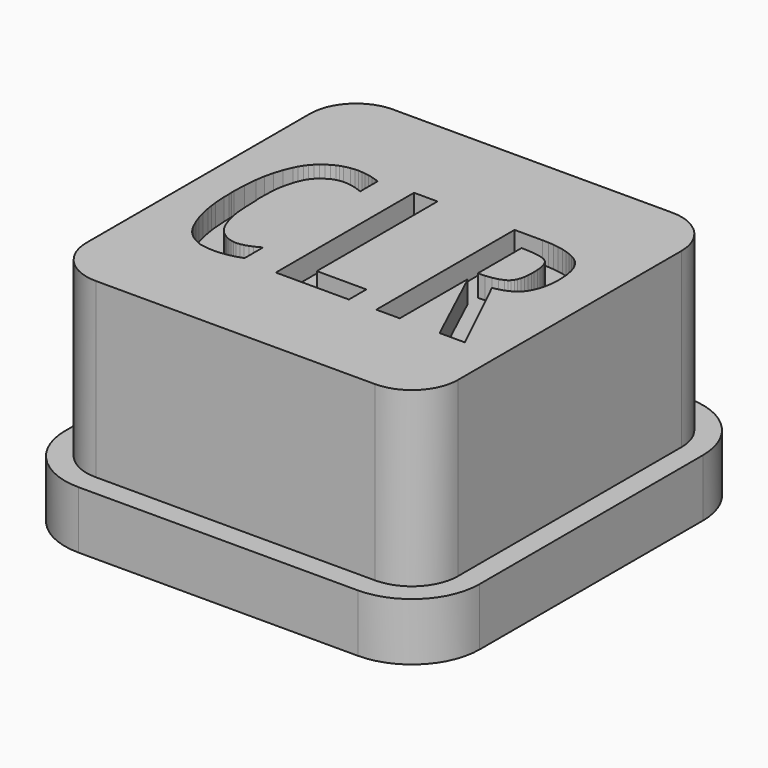
from build123d import *

# Parameters (mm, degrees)
F1_DEPTH = 2
F2_DEPTH = 8
F3_DEPTH = 7.25


with BuildPart() as f1:
    # F0 (on Top) → F1 (new body)
    with BuildSketch(Plane.XY):
        with BuildLine():
            Line((4.85, 7.2), (-4.85, 7.2))
            ThreePointArc((-4.85, 7.2), (-6.5117009358, 6.5117009358), (-7.2, 4.85))
            Line((-7.2, 4.85), (-7.2, -4.85))
            ThreePointArc((-7.2, -4.85), (-6.5117009358, -6.5117009358), (-4.85, -7.2))
            Line((-4.85, -7.2), (4.85, -7.2))
            ThreePointArc((4.85, -7.2), (6.5117009358, -6.5117009358), (7.2, -4.85))
            Line((7.2, -4.85), (7.2, 4.85))
            ThreePointArc((7.2, 4.85), (6.5117009358, 6.5117009358), (4.85, 7.2))
        make_face()
        with BuildLine():
            ThreePointArc((6.45, -4.85), (5.9813708499, -5.9813708499), (4.85, -6.45))
            Line((4.85, -6.45), (-4.85, -6.45))
            ThreePointArc((-4.85, -6.45), (-5.9813708499, -5.9813708499), (-6.45, -4.85))
            Line((-6.45, -4.85), (-6.45, 4.85))
            ThreePointArc((-6.45, 4.85), (-5.9813708499, 5.9813708499), (-4.85, 6.45))
            Line((-4.85, 6.45), (4.85, 6.45))
            ThreePointArc((4.85, 6.45), (5.9813708499, 5.9813708499), (6.45, 4.85))
            Line((6.45, 4.85), (6.45, -4.85))
        make_face(mode=Mode.SUBTRACT)
    extrude(amount=F1_DEPTH)

    # F0 (on Top) → F2 (join)
    with BuildSketch(Plane.XY):
        with BuildLine():
            Line((-4.85, -6.45), (4.85, -6.45))
            ThreePointArc((4.85, -6.45), (5.9813708499, -5.9813708499), (6.45, -4.85))
            Line((6.45, -4.85), (6.45, 4.85))
            ThreePointArc((6.45, 4.85), (5.9813708499, 5.9813708499), (4.85, 6.45))
            Line((4.85, 6.45), (-4.85, 6.45))
            ThreePointArc((-4.85, 6.45), (-5.9813708499, 5.9813708499), (-6.45, 4.85))
            Line((-6.45, 4.85), (-6.45, -4.85))
            ThreePointArc((-6.45, -4.85), (-5.9813708499, -5.9813708499), (-4.85, -6.45))
        make_face()
        Polygon((1.190839, -3.01374), (-1.346565, -3.01374), (-1.346565, 2.98626), (-0.531298, 2.98626), (-0.531298, -2.253435), (1.190839, -2.253435), align=None, mode=Mode.SUBTRACT)
        Polygon((2.977099, -0.091603), (2.958778, -0.091603), (2.958778, -3.01374), (2.143511, -3.01374), (2.143511, 2.98626), (3.123664, 2.98626), (3.324475, 2.981465), (3.514694, 2.967081), (3.694322, 2.943106), (3.863358, 2.909542), (4.021803, 2.866389), (4.169656, 2.813645), (4.306918, 2.751312), (4.433587, 2.67939), (4.547376, 2.593154), (4.645992, 2.487882), (4.729437, 2.363574), (4.79771, 2.220229), (4.850811, 2.057849), (4.88874, 1.876432), (4.911498, 1.675978), (4.919084, 1.456489), (4.915291, 1.304342), (4.903912, 1.159352), (4.884947, 1.021518), (4.858397, 0.89084), (4.82426, 0.767319), (4.782538, 0.650955), (4.73323, 0.541747), (4.676335, 0.439695), (4.609422, 0.345802), (4.530057, 0.261069), (4.438239, 0.185497), (4.333969, 0.119084), (4.217247, 0.061832), (4.088072, 0.013741), (3.946445, -0.02519), (3.792366, -0.054961), (5.221374, -3.01374), (4.341984, -3.01374), align=None, mode=Mode.SUBTRACT)
        Polygon((-2.537405, -2.079389), (-2.537405, -2.876336), (-2.672519, -2.927862), (-2.821374, -2.972519), (-2.9771, -3.008015), (-3.132825, -3.032061), (-3.29313, -3.054961), (-3.444275, -3.059542), (-3.622901, -3.054961), (-3.810687, -3.032061), (-3.90229, -3.01832), (-3.993894, -2.995419), (-4.124499, -2.940386), (-4.246088, -2.876049), (-4.35866, -2.802409), (-4.462214, -2.719465), (-4.556751, -2.627218), (-4.642271, -2.525668), (-4.718774, -2.414814), (-4.78626, -2.294656), (-4.902195, -2.040744), (-4.998092, -1.778244), (-5.073951, -1.507156), (-5.129771, -1.227481), (-5.161832, -1.025954), (-5.184733, -0.824427), (-5.212214, -0.430534), (-5.212214, -0.32061), (-5.212214, -0.210687), (-5.221374, -0.096183), (-5.221374, 0.018321), (-5.207634, 0.448855), (-5.166413, 0.89771), (-5.118035, 1.205726), (-5.046184, 1.506871), (-4.950859, 1.801145), (-4.832061, 2.08855), (-4.761999, 2.225811), (-4.682348, 2.353626), (-4.593106, 2.471995), (-4.494275, 2.580916), (-4.385854, 2.680392), (-4.267844, 2.77042), (-4.140244, 2.851002), (-4.003054, 2.922138), (-3.909161, 2.963359), (-3.810687, 2.99542), (-3.6, 3.041222), (-3.458016, 3.054962), (-3.325191, 3.059542), (-3.210687, 3.054962), (-3.096184, 3.041222), (-2.950764, 3.018321), (-2.807634, 2.98626), (-2.669084, 2.945039), (-2.537405, 2.894657), (-2.537405, 2.134352), (-2.67481, 2.189313), (-2.821374, 2.235115), (-3.009161, 2.276336), (-3.187787, 2.290077), (-3.256489, 2.290077), (-3.325191, 2.280916), (-3.432825, 2.264886), (-3.535878, 2.235115), (-3.634352, 2.191603), (-3.728245, 2.134352), (-3.807825, 2.08354), (-3.88168, 2.02729), (-3.94981, 1.965602), (-4.012214, 1.898474), (-4.068894, 1.825907), (-4.119848, 1.747901), (-4.165077, 1.664456), (-4.204581, 1.575573), (-4.271565, 1.390077), (-4.325955, 1.2), (-4.367748, 1.005344), (-4.396947, 0.806107), (-4.419848, 0.416794), (-4.424428, 0.045802), (-4.424428, 0.032061), (-4.424428, 0.027481), (-4.419848, 0.013741), (-4.415268, 0), (-4.410687, -0.01832), (-4.406107, -0.027481), (-4.396947, -0.458015), (-4.383207, -0.698473), (-4.360306, -0.943511), (-4.326527, -1.138454), (-4.280153, -1.329389), (-4.221184, -1.516316), (-4.149619, -1.699236), (-4.107968, -1.786617), (-4.060878, -1.867843), (-4.00835, -1.942915), (-3.950382, -2.011832), (-3.886976, -2.074594), (-3.81813, -2.131202), (-3.743846, -2.181655), (-3.664123, -2.225954), (-3.567939, -2.271755), (-3.471756, -2.299236), (-3.375573, -2.322137), (-3.27939, -2.326717), (-3.151145, -2.317557), (-3.022901, -2.290076), (-2.895802, -2.248855), (-2.770993, -2.198473), align=None, mode=Mode.SUBTRACT)
    extrude(amount=F2_DEPTH)



with BuildPart() as f2:
    # F0 (on Top) → F2, piece 2 (new body)
    with BuildSketch(Plane.XY):
        Polygon((3.23645, 2.263741), (2.958778, 2.271756), (2.958778, 0.375573), (3.19895, 0.384447), (3.415648, 0.411069), (3.608874, 0.455439), (3.778626, 0.517558), (3.852838, 0.560425), (3.917461, 0.618035), (3.972495, 0.690387), (4.017939, 0.777481), (4.053793, 0.879318), (4.080057, 0.995897), (4.096731, 1.127219), (4.103816, 1.273283), (4.103816, 1.383206), (4.099522, 1.53335), (4.086641, 1.667748), (4.065171, 1.786403), (4.035114, 1.889313), (3.996469, 1.976479), (3.949236, 2.047901), (3.893416, 2.103579), (3.829007, 2.143512), (3.671564, 2.199619), (3.474045, 2.239695), align=None)
    extrude(amount=F2_DEPTH)


with BuildPart() as f1_1:
    add(f1.part)

    add(f2.part)  # F3 merges F2
    # F0 (on Top) → F3 (join)
    with BuildSketch(Plane.XY):
        Polygon((-2.672519, -2.927862), (-2.537405, -2.876336), (-2.537405, -2.079389), (-2.770993, -2.198473), (-2.895802, -2.248855), (-3.022901, -2.290076), (-3.151145, -2.317557), (-3.27939, -2.326717), (-3.375573, -2.322137), (-3.471756, -2.299236), (-3.567939, -2.271755), (-3.664123, -2.225954), (-3.743846, -2.181655), (-3.81813, -2.131202), (-3.886976, -2.074594), (-3.950382, -2.011832), (-4.00835, -1.942915), (-4.060878, -1.867843), (-4.107968, -1.786617), (-4.149619, -1.699236), (-4.221184, -1.516316), (-4.280153, -1.329389), (-4.326527, -1.138454), (-4.360306, -0.943511), (-4.383207, -0.698473), (-4.396947, -0.458015), (-4.406107, -0.027481), (-4.410687, -0.01832), (-4.415268, 0), (-4.419848, 0.013741), (-4.424428, 0.027481), (-4.424428, 0.032061), (-4.424428, 0.045802), (-4.419848, 0.416794), (-4.396947, 0.806107), (-4.367748, 1.005344), (-4.325955, 1.2), (-4.271565, 1.390077), (-4.204581, 1.575573), (-4.165077, 1.664456), (-4.119848, 1.747901), (-4.068894, 1.825907), (-4.012214, 1.898474), (-3.94981, 1.965602), (-3.88168, 2.02729), (-3.807825, 2.08354), (-3.728245, 2.134352), (-3.634352, 2.191603), (-3.535878, 2.235115), (-3.432825, 2.264886), (-3.325191, 2.280916), (-3.256489, 2.290077), (-3.187787, 2.290077), (-3.009161, 2.276336), (-2.821374, 2.235115), (-2.67481, 2.189313), (-2.537405, 2.134352), (-2.537405, 2.894657), (-2.669084, 2.945039), (-2.807634, 2.98626), (-2.950764, 3.018321), (-3.096184, 3.041222), (-3.210687, 3.054962), (-3.325191, 3.059542), (-3.458016, 3.054962), (-3.6, 3.041222), (-3.810687, 2.99542), (-3.909161, 2.963359), (-4.003054, 2.922138), (-4.140244, 2.851002), (-4.267844, 2.77042), (-4.385854, 2.680392), (-4.494275, 2.580916), (-4.593106, 2.471995), (-4.682348, 2.353626), (-4.761999, 2.225811), (-4.832061, 2.08855), (-4.950859, 1.801145), (-5.046184, 1.506871), (-5.118035, 1.205726), (-5.166413, 0.89771), (-5.207634, 0.448855), (-5.221374, 0.018321), (-5.221374, -0.096183), (-5.212214, -0.210687), (-5.212214, -0.32061), (-5.212214, -0.430534), (-5.184733, -0.824427), (-5.161832, -1.025954), (-5.129771, -1.227481), (-5.073951, -1.507156), (-4.998092, -1.778244), (-4.902195, -2.040744), (-4.78626, -2.294656), (-4.718774, -2.414814), (-4.642271, -2.525668), (-4.556751, -2.627218), (-4.462214, -2.719465), (-4.35866, -2.802409), (-4.246088, -2.876049), (-4.124499, -2.940386), (-3.993894, -2.995419), (-3.90229, -3.01832), (-3.810687, -3.032061), (-3.622901, -3.054961), (-3.444275, -3.059542), (-3.29313, -3.054961), (-3.132825, -3.032061), (-2.9771, -3.008015), (-2.821374, -2.972519), align=None)
        Polygon((-1.346565, 2.98626), (-1.346565, -3.01374), (1.190839, -3.01374), (1.190839, -2.253435), (-0.531298, -2.253435), (-0.531298, 2.98626), align=None)
        Polygon((2.958778, -3.01374), (2.958778, -0.091603), (2.977099, -0.091603), (4.341984, -3.01374), (5.221374, -3.01374), (3.792366, -0.054961), (3.946445, -0.02519), (4.088072, 0.013741), (4.217247, 0.061832), (4.333969, 0.119084), (4.438239, 0.185497), (4.530057, 0.261069), (4.609422, 0.345802), (4.676335, 0.439695), (4.73323, 0.541747), (4.782538, 0.650955), (4.82426, 0.767319), (4.858397, 0.89084), (4.884947, 1.021518), (4.903912, 1.159352), (4.915291, 1.304342), (4.919084, 1.456489), (4.911498, 1.675978), (4.88874, 1.876432), (4.850811, 2.057849), (4.79771, 2.220229), (4.729437, 2.363574), (4.645992, 2.487882), (4.547376, 2.593154), (4.433587, 2.67939), (4.306918, 2.751312), (4.169656, 2.813645), (4.021803, 2.866389), (3.863358, 2.909542), (3.694322, 2.943106), (3.514694, 2.967081), (3.324475, 2.981465), (3.123664, 2.98626), (2.143511, 2.98626), (2.143511, -3.01374), align=None)
        Polygon((2.958778, 0.375573), (2.958778, 2.271756), (3.23645, 2.263741), (3.474045, 2.239695), (3.671564, 2.199619), (3.829007, 2.143512), (3.893416, 2.103579), (3.949236, 2.047901), (3.996469, 1.976479), (4.035114, 1.889313), (4.065171, 1.786403), (4.086641, 1.667748), (4.099522, 1.53335), (4.103816, 1.383206), (4.103816, 1.273283), (4.096731, 1.127219), (4.080057, 0.995897), (4.053793, 0.879318), (4.017939, 0.777481), (3.972495, 0.690387), (3.917461, 0.618035), (3.852838, 0.560425), (3.778626, 0.517558), (3.608874, 0.455439), (3.415648, 0.411069), (3.19895, 0.384447), align=None, mode=Mode.SUBTRACT)
    extrude(amount=F3_DEPTH)


solid = f1_1.part
